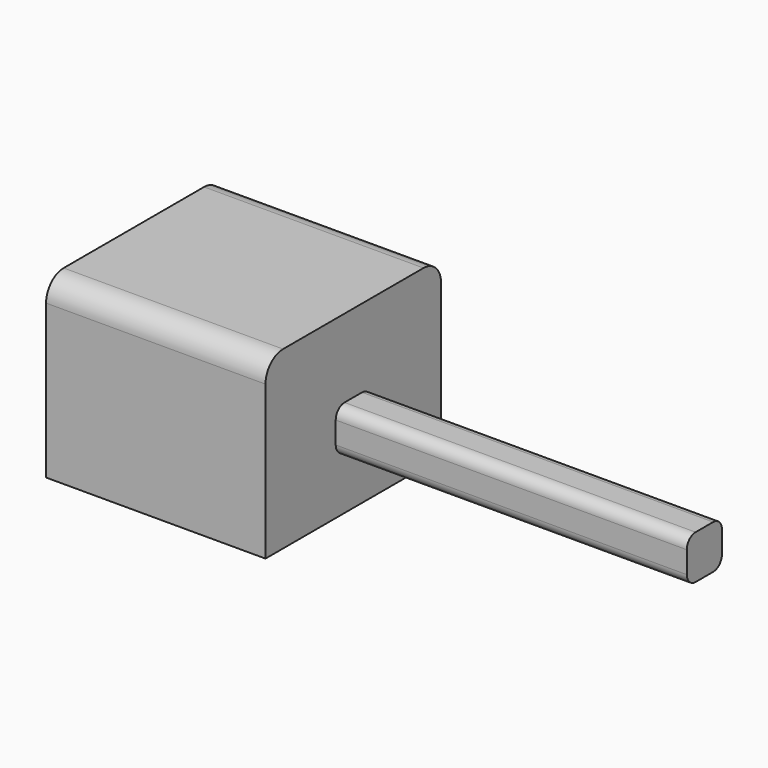
from build123d import *

# Parameters (mm, degrees)
F0_W     = 50
F0_H     = 50
F1_DEPTH = 40
F2_W     = 10
F2_H     = 10
F3_DEPTH = 80
F4_R     = 2.5
F5_R     = 2.5
F6_R     = 2.5
F7_R     = 2.5
F8_R     = 5
F9_R     = 5


with BuildPart() as f1:
    # F0 (on Top) → F1 (new body)
    with BuildSketch(Plane.XY):
        Rectangle(F0_W, F0_H)
    extrude(amount=F1_DEPTH)

    # F2 (on face) → F3 (join)
    with BuildSketch(Plane.YZ.offset(25)):
        with Locations((0, 17.170411)):
            Rectangle(F2_W, F2_H)
    extrude(amount=F3_DEPTH)

    # F4
    f4_edges = [f1.edges().sort_by_distance(p)[0] for p in [
        (65, 5, 22.170411),
    ]]
    fillet(f4_edges, radius=F4_R)

    # F5
    f5_edges = [f1.edges().sort_by_distance(p)[0] for p in [
        (65, -5, 22.170411),
    ]]
    fillet(f5_edges, radius=F5_R)

    # F6
    f6_edges = [f1.edges().sort_by_distance(p)[0] for p in [
        (65, -5, 12.170411),
    ]]
    fillet(f6_edges, radius=F6_R)

    # F7
    f7_edges = [f1.edges().sort_by_distance(p)[0] for p in [
        (65, 5, 12.170411),
    ]]
    fillet(f7_edges, radius=F7_R)

    # F8
    f8_edges = [f1.edges().sort_by_distance(p)[0] for p in [
        (0, 25, 40),
    ]]
    fillet(f8_edges, radius=F8_R)

    # F9
    f9_edges = [f1.edges().sort_by_distance(p)[0] for p in [
        (0, -25, 40),
    ]]
    fillet(f9_edges, radius=F9_R)


solid = f1.part
